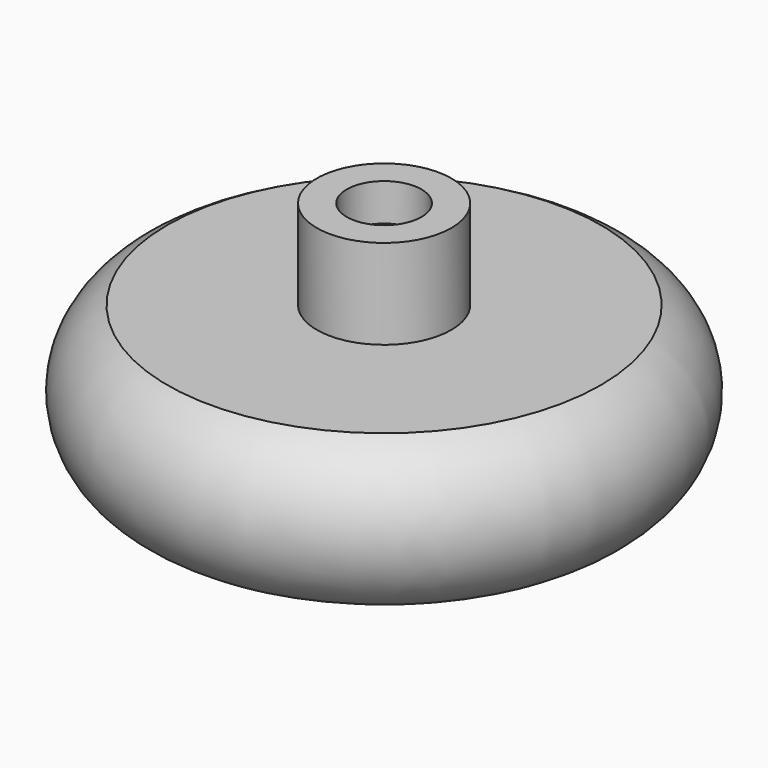
from build123d import *


with BuildPart() as f1:
    # F0 (on Front) → F1 (revolve)
    with BuildSketch(Plane.XZ):
        with BuildLine():
            ThreePointArc((36.553597, 20.219815), (65.125425, 30.10024), (55.245, 58.672068))
            Line((55.245, 58.672068), (17.145, 58.672068))
            Line((17.145, 58.672068), (17.145, 81.532068))
            Line((17.145, 81.532068), (9.525, 81.532068))
            Line((9.525, 81.532068), (9.525, 72.007068))
            Line((9.525, 72.007068), (0, 72.007068))
            Line((0, 72.007068), (0, 21.207068))
            Line((0, 21.207068), (3.429, 21.207068))
            Line((3.429, 21.207068), (3.429, 1.395068))
            Line((3.429, 1.395068), (36.553597, 20.219815))
        make_face()
    revolve(axis=Axis((0, 0, 46.607068), (0, 0, -1)))


solid = f1.part
